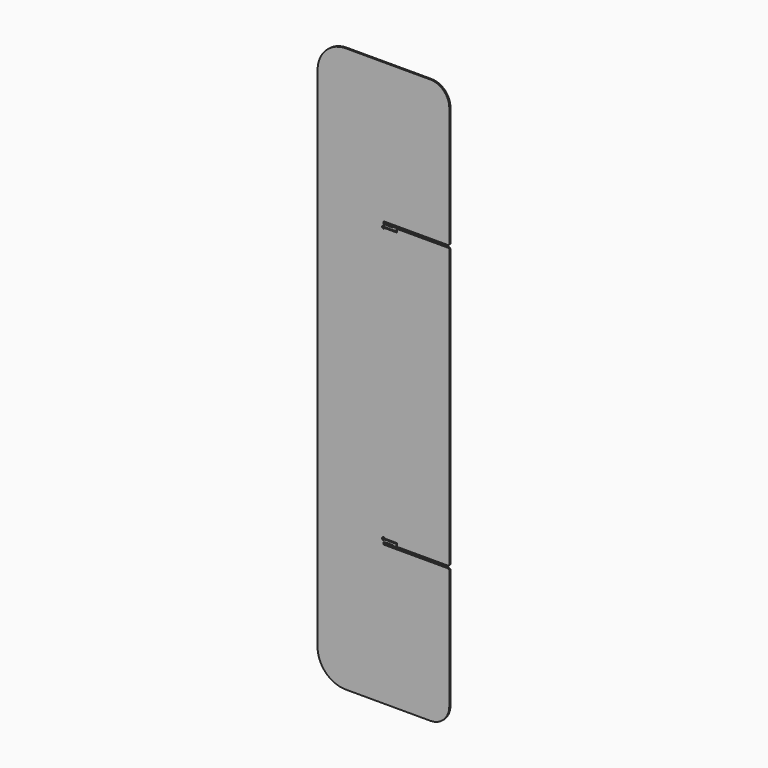
from build123d import *

# Parameters (mm, degrees)
F1_DEPTH      = 0.75
F1_DEPTH_BACK = 0.75


with BuildPart() as f1:
    # F0 (on Front) → F1 (new body, two sides)
    with BuildSketch(Plane.XZ) as f1_sk:
        with BuildLine():
            ThreePointArc((0, 1.175), (-0.070711, 1.345711), (0.1, 1.275))
            Line((0.1, 1.275), (3, 1.275))
            Line((3, 1.275), (3.2, 1.475))
            Line((3.2, 1.475), (9.792945, 1.475))
            ThreePointArc((9.792945, 1.475), (9.914697, 1.433671), (9.98613, 1.326764))
            Line((9.98613, 1.326764), (10.133975, 0.775))
            Line((10.133975, 0.775), (13.051132, 0.775))
            ThreePointArc((13.051132, 0.775), (13.127669, 0.790224), (13.192553, 0.833579))
            Line((13.192553, 0.833579), (13.941421, 1.582447))
            ThreePointArc((13.941421, 1.582447), (13.984776, 1.647331), (14, 1.723868))
            Line((14, 1.723868), (14, 3.55))
            ThreePointArc((14, 3.55), (13.941421, 3.691421), (13.8, 3.75))
            Line((13.8, 3.75), (1.414214, 3.75))
            ThreePointArc((1.414214, 3.75), (0.866025, 3.025255), (0, 2.75))
            ThreePointArc((0, 2.75), (-1.224745, 5.116025), (1.414214, 4.75))
            Line((1.414214, 4.75), (14.3, 4.75))
            ThreePointArc((14.3, 4.75), (14.441421, 4.691421), (14.5, 4.55))
            Line((14.5, 4.55), (14.5, 1.475))
            ThreePointArc((14.5, 1.475), (14.558579, 1.333579), (14.7, 1.275))
            Line((14.7, 1.275), (69, 1.275))
            Line((69, 1.275), (70, 2.275))
            Line((70, 2.275), (70, 150))
            Line((70, 150), (70, 297.725))
            Line((70, 297.725), (69, 298.725))
            Line((69, 298.725), (14.7, 298.725))
            ThreePointArc((14.7, 298.725), (14.558579, 298.666421), (14.5, 298.525))
            Line((14.5, 298.525), (14.5, 295.45))
            ThreePointArc((14.5, 295.45), (14.441421, 295.308579), (14.3, 295.25))
            Line((14.3, 295.25), (1.414214, 295.25))
            ThreePointArc((1.414214, 295.25), (-1.224745, 294.883975), (0, 297.25))
            ThreePointArc((0, 297.25), (0.866025, 296.974745), (1.414214, 296.25))
            Line((1.414214, 296.25), (13.8, 296.25))
            ThreePointArc((13.8, 296.25), (13.941421, 296.308579), (14, 296.45))
            Line((14, 296.45), (14, 298.276132))
            ThreePointArc((14, 298.276132), (13.984776, 298.352669), (13.941421, 298.417553))
            Line((13.941421, 298.417553), (13.192553, 299.166421))
            ThreePointArc((13.192553, 299.166421), (13.127669, 299.209776), (13.051132, 299.225))
            Line((13.051132, 299.225), (10.133975, 299.225))
            Line((10.133975, 299.225), (9.98613, 298.673236))
            ThreePointArc((9.98613, 298.673236), (9.914697, 298.566329), (9.792945, 298.525))
            Line((9.792945, 298.525), (3.2, 298.525))
            Line((3.2, 298.525), (3, 298.725))
            Line((3, 298.725), (0.1, 298.725))
            ThreePointArc((0.1, 298.725), (-0.070711, 298.654289), (0, 298.825))
            Line((0, 298.825), (0, 300))
            Line((0, 300), (0, 301.175))
            ThreePointArc((0, 301.175), (-0.070711, 301.345711), (0.1, 301.275))
            Line((0.1, 301.275), (14.7, 301.275))
            Line((14.7, 301.275), (69, 301.275))
            Line((69, 301.275), (70, 302.275))
            Line((70, 302.275), (70, 430))
            ThreePointArc((70, 430), (64.142136, 444.142136), (50, 450))
            Line((50, 450), (-40, 450))
            ThreePointArc((-40, 450), (-61.213203, 441.213203), (-70, 420))
            Line((-70, 420), (-70, -120))
            ThreePointArc((-70, -120), (-61.213203, -141.213203), (-40, -150))
            Line((-40, -150), (50, -150))
            ThreePointArc((50, -150), (64.142136, -144.142136), (70, -130))
            Line((70, -130), (70, -2.275))
            Line((70, -2.275), (69, -1.275))
            Line((69, -1.275), (14.7, -1.275))
            Line((14.7, -1.275), (0.1, -1.275))
            ThreePointArc((0.1, -1.275), (-0.070711, -1.345711), (0, -1.175))
            Line((0, -1.175), (0, 0))
            Line((0, 0), (0, 1.175))
        make_face()
    extrude(amount=F1_DEPTH)
    extrude(f1_sk.sketch, amount=-F1_DEPTH_BACK)


solid = f1.part
